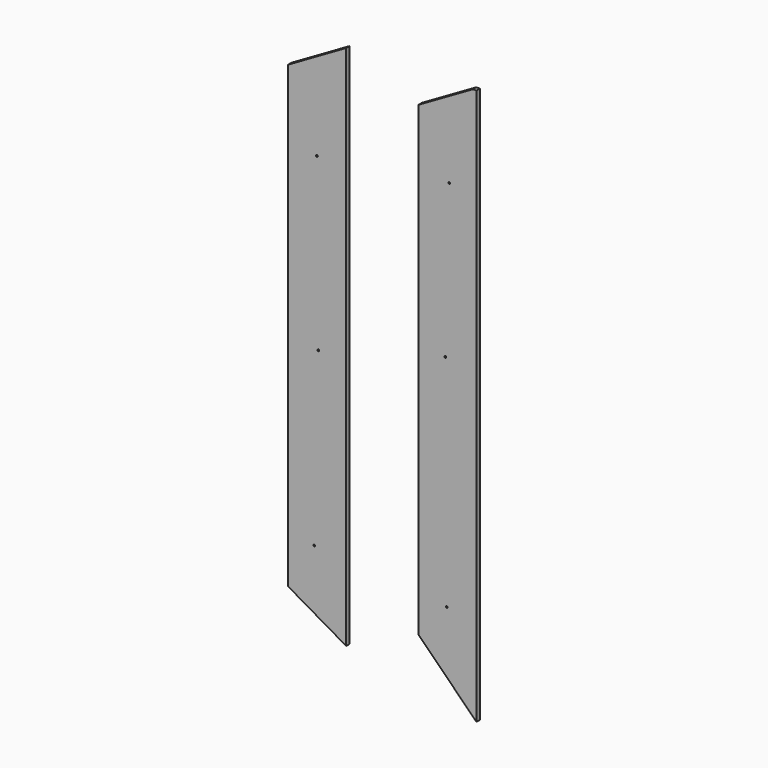
from build123d import *

# Parameters (mm, degrees)
F1_DEPTH = 18
F2_DEPTH = 18


with BuildPart() as f1:
    # F0 (on Front) → F1 (new body)
    with BuildSketch(Plane.XZ):
        Polygon((-292.581528, -1089.160221), (-292.581526, 1174.435994), (-542.074506, 1030.389004), (-542.075497, -945.112988), align=None)
        with BuildLine():
            ThreePointArc((-433.849526, -753.840006), (-432.751176, -751.188356), (-430.099526, -750.090006))
            ThreePointArc((-430.099526, -750.090006), (-427.447876, -751.188356), (-426.349526, -753.840006))
            ThreePointArc((-426.349526, -753.840006), (-427.447876, -756.491656), (-430.099526, -757.590006))
            ThreePointArc((-430.099526, -757.590006), (-432.751176, -756.491656), (-433.849526, -753.840006))
        make_face(mode=Mode.SUBTRACT)
        with BuildLine():
            ThreePointArc((-416.245526, -8.611006), (-415.147176, -5.959356), (-412.495526, -4.861006))
            ThreePointArc((-412.495526, -4.861006), (-409.843876, -5.959356), (-408.745526, -8.611006))
            ThreePointArc((-408.745526, -8.611006), (-409.843876, -11.262656), (-412.495526, -12.361006))
            ThreePointArc((-412.495526, -12.361006), (-415.147176, -11.262656), (-416.245526, -8.611006))
        make_face(mode=Mode.SUBTRACT)
        Polygon((-428.823632, 92.789807), (-428.8264, 93.203596), (-428.829803, 93.623463), (-428.822563, 94.042433), (-428.804756, 94.460314), (-428.776457, 94.876914), (-428.737742, 95.292039), (-428.688687, 95.705497), (-428.629367, 96.117094), (-428.559858, 96.526638), (-428.480236, 96.933936), (-428.390576, 97.338795), (-428.290955, 97.741022), (-428.181447, 98.140424), (-428.062128, 98.536809), (-427.933075, 98.929984), (-427.794363, 99.319755), (-427.646067, 99.70593), (-427.488263, 100.088315), (-427.321027, 100.466719), (-427.144434, 100.840948), (-426.958561, 101.21081), (-426.763483, 101.576111), (-426.559276, 101.936658), (-426.346014, 102.292259), (-426.123775, 102.642721), (-425.892633, 102.987851), (-425.652665, 103.327456), (-425.403946, 103.661344), (-425.146551, 103.98932), (-424.880557, 104.311193), (-424.606039, 104.62677), (-424.323072, 104.935858), (-424.031733, 105.238263), (-423.651452, 105.588123), (-423.263264, 105.927644), (-422.867403, 106.256738), (-422.464103, 106.575315), (-422.053598, 106.883287), (-421.636122, 107.180564), (-421.211908, 107.467058), (-420.781192, 107.74268), (-420.344205, 108.007341), (-419.901183, 108.260952), (-419.452359, 108.503424), (-418.997968, 108.734669), (-418.538242, 108.954598), (-418.073416, 109.163121), (-417.603724, 109.36015), (-417.1294, 109.545596), (-416.650677, 109.71937), (-416.16779, 109.881384), (-415.680972, 110.031548), (-415.190457, 110.169773), (-414.69648, 110.295971), (-414.199273, 110.410053), (-413.699071, 110.51193), (-413.196108, 110.601513), (-412.690618, 110.678713), (-412.182834, 110.743441), (-411.672991, 110.795609), (-411.161322, 110.835127), (-410.648061, 110.861908), (-410.133442, 110.875861), (-409.617699, 110.876898), (-409.101067, 110.86493), (-408.539946, 110.881001), (-407.979756, 110.882779), (-407.420757, 110.870361), (-406.863207, 110.843846), (-406.307367, 110.803331), (-405.753494, 110.748914), (-405.20185, 110.680692), (-404.652692, 110.598763), (-404.10628, 110.503225), (-403.562873, 110.394174), (-403.022731, 110.27171), (-402.486113, 110.13593), (-401.953279, 109.98693), (-401.424486, 109.82481), (-400.899996, 109.649666), (-400.380067, 109.461596), (-399.864957, 109.260698), (-399.354928, 109.04707), (-398.850237, 108.820809), (-398.351145, 108.582013), (-397.85791, 108.330779), (-397.370791, 108.067206), (-396.890049, 107.79139), (-396.415942, 107.50343), (-395.948729, 107.203422), (-395.48867, 106.891466), (-395.036024, 106.567658), (-394.591051, 106.232096), (-394.154009, 105.884878), (-393.725158, 105.526101), (-393.304758, 105.155864), (-392.893067, 104.774263), (-392.602393, 104.488514), (-392.319925, 104.195899), (-392.045746, 103.896613), (-391.779936, 103.590851), (-391.522578, 103.278811), (-391.273752, 102.960687), (-391.033541, 102.636675), (-390.802025, 102.306971), (-390.579287, 101.971771), (-390.365407, 101.631271), (-390.160468, 101.285667), (-389.964551, 100.935154), (-389.777737, 100.579927), (-389.600109, 100.220184), (-389.431747, 99.85612), (-389.272733, 99.48793), (-389.123149, 99.11581), (-388.983076, 98.739956), (-388.852596, 98.360565), (-388.731791, 97.977831), (-388.620741, 97.59195), (-388.519528, 97.203119), (-388.428235, 96.811533), (-388.346942, 96.417388), (-388.275731, 96.02088), (-388.214683, 95.622204), (-388.163881, 95.221556), (-388.123405, 94.819133), (-388.093338, 94.415129), (-388.07376, 94.009741), (-388.064754, 93.603165), (-388.0664, 93.195596), (-388.070073, 92.781348), (-388.084537, 92.368236), (-388.109707, 91.956457), (-388.145499, 91.546211), (-388.191828, 91.137695), (-388.248609, 90.731108), (-388.315758, 90.326648), (-388.393192, 89.924513), (-388.480824, 89.524901), (-388.578571, 89.128012), (-388.686349, 88.734042), (-388.804072, 88.34319), (-388.931656, 87.955655), (-389.069018, 87.571634), (-389.216072, 87.191326), (-389.372733, 86.81493), (-389.538918, 86.442642), (-389.714542, 86.074663), (-389.899521, 85.711189), (-390.09377, 85.352419), (-390.297204, 84.998552), (-390.509739, 84.649785), (-390.731291, 84.306317), (-390.961775, 83.968346), (-391.201107, 83.636071), (-391.449201, 83.309689), (-391.705975, 82.989398), (-391.971343, 82.675398), (-392.24522, 82.367886), (-392.527523, 82.067061), (-392.818167, 81.77312), (-393.117067, 81.486263), (-393.526595, 81.116083), (-393.94451, 80.757104), (-394.370559, 80.409418), (-394.804488, 80.073117), (-395.246045, 79.748293), (-395.694975, 79.435036), (-396.151025, 79.13344), (-396.613942, 78.843596), (-397.083472, 78.565596), (-397.559361, 78.299531), (-398.041358, 78.045494), (-398.529207, 77.803575), (-399.022656, 77.573868), (-399.521451, 77.356463), (-400.025339, 77.151453), (-400.534067, 76.95893), (-401.04738, 76.778984), (-401.565026, 76.611708), (-402.08675, 76.457194), (-402.612301, 76.315534), (-403.141424, 76.186819), (-403.673865, 76.071141), (-404.209372, 75.968591), (-404.747692, 75.879263), (-405.288569, 75.803247), (-405.831752, 75.740635), (-406.376987, 75.69152), (-406.92402, 75.655992), (-407.472598, 75.634144), (-408.022467, 75.626068), (-408.573374, 75.631854), (-409.125067, 75.651596), (-409.639894, 75.643167), (-410.15372, 75.647818), (-410.666306, 75.665457), (-411.177416, 75.695992), (-411.686813, 75.739332), (-412.19426, 75.795385), (-412.699521, 75.864059), (-413.202358, 75.945263), (-413.702536, 76.038904), (-414.199816, 76.144891), (-414.693962, 76.263131), (-415.184738, 76.393534), (-415.671907, 76.536007), (-416.155231, 76.690458), (-416.634475, 76.856796), (-417.1094, 77.03493), (-417.579771, 77.224766), (-418.04535, 77.426213), (-418.505901, 77.639181), (-418.961186, 77.863575), (-419.41097, 78.099306), (-419.855015, 78.346281), (-420.293085, 78.604408), (-420.724942, 78.873596), (-421.150349, 79.153753), (-421.569071, 79.444786), (-421.98087, 79.746605), (-422.385509, 80.059117), (-422.782752, 80.382231), (-423.172361, 80.715854), (-423.554101, 81.059895), (-423.927733, 81.414263), (-424.218947, 81.708169), (-424.502035, 82.008762), (-424.776919, 82.315854), (-425.04352, 82.629258), (-425.30176, 82.948784), (-425.551559, 83.274245), (-425.792841, 83.605454), (-426.025525, 83.942221), (-426.249533, 84.28436), (-426.464787, 84.631682), (-426.671208, 84.983998), (-426.868718, 85.341122), (-427.057237, 85.702865), (-427.236687, 86.06904), (-427.40699, 86.439457), (-427.568067, 86.81393), (-427.719839, 87.192269), (-427.862227, 87.574288), (-427.995154, 87.959798), (-428.118541, 88.348612), (-428.232308, 88.740541), (-428.336377, 89.135396), (-428.43067, 89.532992), (-428.515108, 89.933138), (-428.589613, 90.335648), (-428.654105, 90.740333), (-428.708506, 91.147005), (-428.752738, 91.555476), (-428.786722, 91.965559), (-428.81038, 92.377066), align=None, mode=Mode.SUBTRACT)
        Polygon((-428.823632, 137.035141), (-428.8264, 137.44893), (-428.829803, 137.868796), (-428.822563, 138.287766), (-428.804756, 138.705648), (-428.776457, 139.122247), (-428.737742, 139.537372), (-428.688687, 139.95083), (-428.629367, 140.362427), (-428.559858, 140.771971), (-428.480236, 141.179269), (-428.390576, 141.584128), (-428.290955, 141.986355), (-428.181447, 142.385758), (-428.062128, 142.782143), (-427.933075, 143.175317), (-427.794363, 143.565088), (-427.646067, 143.951263), (-427.488263, 144.333649), (-427.321027, 144.712053), (-427.144434, 145.086282), (-426.958561, 145.456143), (-426.763483, 145.821444), (-426.559276, 146.181991), (-426.346014, 146.537593), (-426.123775, 146.888055), (-425.892633, 147.233185), (-425.652665, 147.57279), (-425.403946, 147.906677), (-425.146551, 148.234654), (-424.880557, 148.556527), (-424.606039, 148.872103), (-424.323072, 149.181191), (-424.031733, 149.483596), (-423.651452, 149.833456), (-423.263264, 150.172978), (-422.867403, 150.502071), (-422.464103, 150.820648), (-422.053598, 151.12862), (-421.636122, 151.425897), (-421.211908, 151.712391), (-420.781192, 151.988013), (-420.344205, 152.252674), (-419.901183, 152.506285), (-419.452359, 152.748758), (-418.997968, 152.980002), (-418.538242, 153.199931), (-418.073416, 153.408454), (-417.603724, 153.605483), (-417.1294, 153.79093), (-416.650677, 153.964704), (-416.16779, 154.126717), (-415.680972, 154.276881), (-415.190457, 154.415107), (-414.69648, 154.541305), (-414.199273, 154.655387), (-413.699071, 154.757263), (-413.196108, 154.846846), (-412.690618, 154.924046), (-412.182834, 154.988775), (-411.672991, 155.040942), (-411.161322, 155.080461), (-410.648061, 155.107241), (-410.133442, 155.121194), (-409.617699, 155.122231), (-409.101067, 155.110263), (-408.539946, 155.126334), (-407.979756, 155.128112), (-407.420757, 155.115695), (-406.863207, 155.08918), (-406.307367, 155.048665), (-405.753494, 154.994247), (-405.20185, 154.926025), (-404.652692, 154.844096), (-404.10628, 154.748558), (-403.562873, 154.639508), (-403.022731, 154.517044), (-402.486113, 154.381263), (-401.953279, 154.232264), (-401.424486, 154.070143), (-400.899996, 153.894999), (-400.380067, 153.70693), (-399.864957, 153.506032), (-399.354928, 153.292404), (-398.850237, 153.066142), (-398.351145, 152.827346), (-397.85791, 152.576113), (-397.370791, 152.312539), (-396.890049, 152.036723), (-396.415942, 151.748763), (-395.948729, 151.448756), (-395.48867, 151.136799), (-395.036024, 150.812991), (-394.591051, 150.47743), (-394.154009, 150.130211), (-393.725158, 149.771435), (-393.304758, 149.401197), (-392.893067, 149.019596), (-392.602393, 148.733848), (-392.319925, 148.441232), (-392.045746, 148.141946), (-391.779936, 147.836185), (-391.522578, 147.524144), (-391.273752, 147.20602), (-391.033541, 146.882008), (-390.802025, 146.552305), (-390.579287, 146.217105), (-390.365407, 145.876605), (-390.160468, 145.531), (-389.964551, 145.180487), (-389.777737, 144.825261), (-389.600109, 144.465517), (-389.431747, 144.101453), (-389.272733, 143.733263), (-389.123149, 143.361143), (-388.983076, 142.98529), (-388.852596, 142.605898), (-388.731791, 142.223164), (-388.620741, 141.837284), (-388.519528, 141.448452), (-388.428235, 141.056866), (-388.346942, 140.662721), (-388.275731, 140.266213), (-388.214683, 139.867537), (-388.163881, 139.466889), (-388.123405, 139.064466), (-388.093338, 138.660463), (-388.07376, 138.255075), (-388.064754, 137.848499), (-388.0664, 137.44093), (-388.070073, 137.026681), (-388.084537, 136.613569), (-388.109707, 136.20179), (-388.145499, 135.791544), (-388.191828, 135.383028), (-388.248609, 134.976441), (-388.315758, 134.571981), (-388.393192, 134.169846), (-388.480824, 133.770235), (-388.578571, 133.373345), (-388.686349, 132.979375), (-388.804072, 132.588523), (-388.931656, 132.200988), (-389.069018, 131.816967), (-389.216072, 131.43666), (-389.372733, 131.060263), (-389.538918, 130.687976), (-389.714542, 130.319996), (-389.899521, 129.956522), (-390.09377, 129.597752), (-390.297204, 129.243885), (-390.509739, 128.895118), (-390.731291, 128.55165), (-390.961775, 128.21368), (-391.201107, 127.881404), (-391.449201, 127.555022), (-391.705975, 127.234732), (-391.971343, 126.920732), (-392.24522, 126.61322), (-392.527523, 126.312394), (-392.818167, 126.018454), (-393.117067, 125.731596), (-393.526595, 125.361416), (-393.94451, 125.002437), (-394.370559, 124.654752), (-394.804488, 124.31845), (-395.246045, 123.993626), (-395.694975, 123.68037), (-396.151025, 123.378774), (-396.613942, 123.08893), (-397.083472, 122.810929), (-397.559361, 122.544864), (-398.041358, 122.290827), (-398.529207, 122.048909), (-399.022656, 121.819201), (-399.521451, 121.601797), (-400.025339, 121.396787), (-400.534067, 121.204263), (-401.04738, 121.024317), (-401.565026, 120.857042), (-402.08675, 120.702528), (-402.612301, 120.560867), (-403.141424, 120.432152), (-403.673865, 120.316474), (-404.209372, 120.213925), (-404.747692, 120.124596), (-405.288569, 120.04858), (-405.831752, 119.985969), (-406.376987, 119.936853), (-406.92402, 119.901325), (-407.472598, 119.879477), (-408.022467, 119.871401), (-408.573374, 119.877188), (-409.125067, 119.89693), (-409.639894, 119.8885), (-410.15372, 119.893151), (-410.666306, 119.91079), (-411.177416, 119.941325), (-411.686813, 119.984666), (-412.19426, 120.040719), (-412.699521, 120.109393), (-413.202358, 120.190596), (-413.702536, 120.284237), (-414.199816, 120.390224), (-414.693962, 120.508464), (-415.184738, 120.638867), (-415.671907, 120.78134), (-416.155231, 120.935792), (-416.634475, 121.10213), (-417.1094, 121.280263), (-417.579771, 121.470099), (-418.04535, 121.671547), (-418.505901, 121.884514), (-418.961186, 122.108909), (-419.41097, 122.34464), (-419.855015, 122.591614), (-420.293085, 122.849742), (-420.724942, 123.11893), (-421.150349, 123.399086), (-421.569071, 123.69012), (-421.98087, 123.991938), (-422.385509, 124.30445), (-422.782752, 124.627564), (-423.172361, 124.961187), (-423.554101, 125.305229), (-423.927733, 125.659596), (-424.218947, 125.953502), (-424.502035, 126.254096), (-424.776919, 126.561188), (-425.04352, 126.874591), (-425.30176, 127.194117), (-425.551559, 127.519579), (-425.792841, 127.850787), (-426.025525, 128.187555), (-426.249533, 128.529693), (-426.464787, 128.877015), (-426.671208, 129.229332), (-426.868718, 129.586456), (-427.057237, 129.948199), (-427.236687, 130.314373), (-427.40699, 130.68479), (-427.568067, 131.059263), (-427.719839, 131.437603), (-427.862227, 131.819622), (-427.995154, 132.205132), (-428.118541, 132.593945), (-428.232308, 132.985874), (-428.336377, 133.38073), (-428.43067, 133.778325), (-428.515108, 134.178471), (-428.589613, 134.580981), (-428.654105, 134.985666), (-428.708506, 135.392338), (-428.752738, 135.80081), (-428.786722, 136.210893), (-428.81038, 136.622399), align=None, mode=Mode.SUBTRACT)
        Polygon((-408.277067, 172.69693), (-408.277067, 190.254263), (-388.3064, 190.254263), (-388.3064, 172.69693), (-388.309804, 172.202554), (-388.338754, 171.711049), (-388.392861, 171.22335), (-388.471733, 170.740388), (-388.574981, 170.263098), (-388.702212, 169.792414), (-388.853038, 169.329269), (-389.027067, 168.874596), (-389.223908, 168.42933), (-389.443171, 167.994404), (-389.684465, 167.570751), (-389.9474, 167.159305), (-390.231585, 166.760999), (-390.536629, 166.376768), (-390.862142, 166.007545), (-391.207733, 165.654263), (-391.559241, 165.313824), (-391.926171, 164.992752), (-392.307632, 164.691415), (-392.702733, 164.41018), (-393.110585, 164.149413), (-393.530296, 163.909482), (-393.960975, 163.690754), (-394.401733, 163.493596), (-394.851679, 163.318376), (-395.309921, 163.165461), (-395.775569, 163.035217), (-396.247733, 162.928013), (-396.725522, 162.844215), (-397.208046, 162.78419), (-397.694413, 162.748306), (-398.183733, 162.73693), (-398.685294, 162.73396), (-399.184348, 162.756799), (-399.679948, 162.805068), (-400.17115, 162.878388), (-400.657008, 162.976379), (-401.136577, 163.098664), (-401.608912, 163.244863), (-402.073067, 163.414596), (-402.528097, 163.607486), (-402.973056, 163.823154), (-403.407, 164.061219), (-403.828983, 164.321305), (-404.23806, 164.60303), (-404.633285, 164.906018), (-405.013714, 165.229889), (-405.3784, 165.574263), (-405.722526, 165.934391), (-406.046655, 166.310159), (-406.350417, 166.700646), (-406.633442, 167.10493), (-406.895356, 167.522088), (-407.135791, 167.9512), (-407.354373, 168.391344), (-407.550733, 168.841596), (-407.7245, 169.301036), (-407.875301, 169.768742), (-408.002766, 170.243792), (-408.106525, 170.725263), (-408.186205, 171.212234), (-408.241436, 171.703784), (-408.271847, 172.198989), align=None, mode=Mode.SUBTRACT)
        with BuildLine():
            ThreePointArc((-422.113526, 724.880994), (-421.015176, 727.532644), (-418.363526, 728.630994))
            ThreePointArc((-418.363526, 728.630994), (-415.711876, 727.532644), (-414.613526, 724.880994))
            ThreePointArc((-414.613526, 724.880994), (-415.711876, 722.229344), (-418.363526, 721.130994))
            ThreePointArc((-418.363526, 721.130994), (-421.015176, 722.229344), (-422.113526, 724.880994))
        make_face(mode=Mode.SUBTRACT)
        Polygon((-388.3064, 190.254263), (-408.277067, 190.254263), (-408.277067, 172.69693), (-408.271847, 172.198989), (-408.241436, 171.703784), (-408.186205, 171.212234), (-408.106525, 170.725263), (-408.002766, 170.243792), (-407.875301, 169.768742), (-407.7245, 169.301036), (-407.550733, 168.841596), (-407.354373, 168.391344), (-407.135791, 167.9512), (-406.895356, 167.522088), (-406.633442, 167.10493), (-406.350417, 166.700646), (-406.046655, 166.310159), (-405.722526, 165.934391), (-405.3784, 165.574263), (-405.013714, 165.229889), (-404.633285, 164.906018), (-404.23806, 164.60303), (-403.828983, 164.321305), (-403.407, 164.061219), (-402.973056, 163.823154), (-402.528097, 163.607486), (-402.073067, 163.414596), (-401.608912, 163.244863), (-401.136577, 163.098664), (-400.657008, 162.976379), (-400.17115, 162.878388), (-399.679948, 162.805068), (-399.184348, 162.756799), (-398.685294, 162.73396), (-398.183733, 162.73693), (-397.694413, 162.748306), (-397.208046, 162.78419), (-396.725522, 162.844215), (-396.247733, 162.928013), (-395.775569, 163.035217), (-395.309921, 163.165461), (-394.851679, 163.318376), (-394.401733, 163.493596), (-393.960975, 163.690754), (-393.530296, 163.909482), (-393.110585, 164.149413), (-392.702733, 164.41018), (-392.307632, 164.691415), (-391.926171, 164.992752), (-391.559241, 165.313824), (-391.207733, 165.654263), (-390.862142, 166.007545), (-390.536629, 166.376768), (-390.231585, 166.760999), (-389.9474, 167.159305), (-389.684465, 167.570751), (-389.443171, 167.994404), (-389.223908, 168.42933), (-389.027067, 168.874596), (-388.853038, 169.329269), (-388.702212, 169.792414), (-388.574981, 170.263098), (-388.471733, 170.740388), (-388.392861, 171.22335), (-388.338754, 171.711049), (-388.309804, 172.202554), (-388.3064, 172.69693), align=None)
        Polygon((-428.829803, 137.868796), (-428.8264, 137.44893), (-428.823632, 137.035141), (-428.81038, 136.622399), (-428.786722, 136.210893), (-428.752738, 135.80081), (-428.708506, 135.392338), (-428.654105, 134.985666), (-428.589613, 134.580981), (-428.515108, 134.178471), (-428.43067, 133.778325), (-428.336377, 133.38073), (-428.232308, 132.985874), (-428.118541, 132.593945), (-427.995154, 132.205132), (-427.862227, 131.819622), (-427.719839, 131.437603), (-427.568067, 131.059263), (-427.40699, 130.68479), (-427.236687, 130.314373), (-427.057237, 129.948199), (-426.868718, 129.586456), (-426.671208, 129.229332), (-426.464787, 128.877015), (-426.249533, 128.529693), (-426.025525, 128.187555), (-425.792841, 127.850787), (-425.551559, 127.519579), (-425.30176, 127.194117), (-425.04352, 126.874591), (-424.776919, 126.561188), (-424.502035, 126.254096), (-424.218947, 125.953502), (-423.927733, 125.659596), (-423.554101, 125.305229), (-423.172361, 124.961187), (-422.782752, 124.627564), (-422.385509, 124.30445), (-421.98087, 123.991938), (-421.569071, 123.69012), (-421.150349, 123.399086), (-420.724942, 123.11893), (-420.293085, 122.849742), (-419.855015, 122.591614), (-419.41097, 122.34464), (-418.961186, 122.108909), (-418.505901, 121.884514), (-418.04535, 121.671547), (-417.579771, 121.470099), (-417.1094, 121.280263), (-416.634475, 121.10213), (-416.155231, 120.935792), (-415.671907, 120.78134), (-415.184738, 120.638867), (-414.693962, 120.508464), (-414.199816, 120.390224), (-413.702536, 120.284237), (-413.202358, 120.190596), (-412.699521, 120.109393), (-412.19426, 120.040719), (-411.686813, 119.984666), (-411.177416, 119.941325), (-410.666306, 119.91079), (-410.15372, 119.893151), (-409.639894, 119.8885), (-409.125067, 119.89693), (-408.573374, 119.877188), (-408.022467, 119.871401), (-407.472598, 119.879477), (-406.92402, 119.901325), (-406.376987, 119.936853), (-405.831752, 119.985969), (-405.288569, 120.04858), (-404.747692, 120.124596), (-404.209372, 120.213925), (-403.673865, 120.316474), (-403.141424, 120.432152), (-402.612301, 120.560867), (-402.08675, 120.702528), (-401.565026, 120.857042), (-401.04738, 121.024317), (-400.534067, 121.204263), (-400.025339, 121.396787), (-399.521451, 121.601797), (-399.022656, 121.819201), (-398.529207, 122.048909), (-398.041358, 122.290827), (-397.559361, 122.544864), (-397.083472, 122.810929), (-396.613942, 123.08893), (-396.151025, 123.378774), (-395.694975, 123.68037), (-395.246045, 123.993626), (-394.804488, 124.31845), (-394.370559, 124.654752), (-393.94451, 125.002437), (-393.526595, 125.361416), (-393.117067, 125.731596), (-392.818167, 126.018454), (-392.527523, 126.312394), (-392.24522, 126.61322), (-391.971343, 126.920732), (-391.705975, 127.234732), (-391.449201, 127.555022), (-391.201107, 127.881404), (-390.961775, 128.21368), (-390.731291, 128.55165), (-390.509739, 128.895118), (-390.297204, 129.243885), (-390.09377, 129.597752), (-389.899521, 129.956522), (-389.714542, 130.319996), (-389.538918, 130.687976), (-389.372733, 131.060263), (-389.216072, 131.43666), (-389.069018, 131.816967), (-388.931656, 132.200988), (-388.804072, 132.588523), (-388.686349, 132.979375), (-388.578571, 133.373345), (-388.480824, 133.770235), (-388.393192, 134.169846), (-388.315758, 134.571981), (-388.248609, 134.976441), (-388.191828, 135.383028), (-388.145499, 135.791544), (-388.109707, 136.20179), (-388.084537, 136.613569), (-388.070073, 137.026681), (-388.0664, 137.44093), (-388.064754, 137.848499), (-388.07376, 138.255075), (-388.093338, 138.660463), (-388.123405, 139.064466), (-388.163881, 139.466889), (-388.214683, 139.867537), (-388.275731, 140.266213), (-388.346942, 140.662721), (-388.428235, 141.056866), (-388.519528, 141.448452), (-388.620741, 141.837284), (-388.731791, 142.223164), (-388.852596, 142.605898), (-388.983076, 142.98529), (-389.123149, 143.361143), (-389.272733, 143.733263), (-389.431747, 144.101453), (-389.600109, 144.465517), (-389.777737, 144.825261), (-389.964551, 145.180487), (-390.160468, 145.531), (-390.365407, 145.876605), (-390.579287, 146.217105), (-390.802025, 146.552305), (-391.033541, 146.882008), (-391.273752, 147.20602), (-391.522578, 147.524144), (-391.779936, 147.836185), (-392.045746, 148.141946), (-392.319925, 148.441232), (-392.602393, 148.733848), (-392.893067, 149.019596), (-393.304758, 149.401197), (-393.725158, 149.771435), (-394.154009, 150.130211), (-394.591051, 150.47743), (-395.036024, 150.812991), (-395.48867, 151.136799), (-395.948729, 151.448756), (-396.415942, 151.748763), (-396.890049, 152.036723), (-397.370791, 152.312539), (-397.85791, 152.576113), (-398.351145, 152.827346), (-398.850237, 153.066142), (-399.354928, 153.292404), (-399.864957, 153.506032), (-400.380067, 153.70693), (-400.899996, 153.894999), (-401.424486, 154.070143), (-401.953279, 154.232264), (-402.486113, 154.381263), (-403.022731, 154.517044), (-403.562873, 154.639508), (-404.10628, 154.748558), (-404.652692, 154.844096), (-405.20185, 154.926025), (-405.753494, 154.994247), (-406.307367, 155.048665), (-406.863207, 155.08918), (-407.420757, 155.115695), (-407.979756, 155.128112), (-408.539946, 155.126334), (-409.101067, 155.110263), (-409.617699, 155.122231), (-410.133442, 155.121194), (-410.648061, 155.107241), (-411.161322, 155.080461), (-411.672991, 155.040942), (-412.182834, 154.988775), (-412.690618, 154.924046), (-413.196108, 154.846846), (-413.699071, 154.757263), (-414.199273, 154.655387), (-414.69648, 154.541305), (-415.190457, 154.415107), (-415.680972, 154.276881), (-416.16779, 154.126717), (-416.650677, 153.964704), (-417.1294, 153.79093), (-417.603724, 153.605483), (-418.073416, 153.408454), (-418.538242, 153.199931), (-418.997968, 152.980002), (-419.452359, 152.748758), (-419.901183, 152.506285), (-420.344205, 152.252674), (-420.781192, 151.988013), (-421.211908, 151.712391), (-421.636122, 151.425897), (-422.053598, 151.12862), (-422.464103, 150.820648), (-422.867403, 150.502071), (-423.263264, 150.172978), (-423.651452, 149.833456), (-424.031733, 149.483596), (-424.323072, 149.181191), (-424.606039, 148.872103), (-424.880557, 148.556527), (-425.146551, 148.234654), (-425.403946, 147.906677), (-425.652665, 147.57279), (-425.892633, 147.233185), (-426.123775, 146.888055), (-426.346014, 146.537593), (-426.559276, 146.181991), (-426.763483, 145.821444), (-426.958561, 145.456143), (-427.144434, 145.086282), (-427.321027, 144.712053), (-427.488263, 144.333649), (-427.646067, 143.951263), (-427.794363, 143.565088), (-427.933075, 143.175317), (-428.062128, 142.782143), (-428.181447, 142.385758), (-428.290955, 141.986355), (-428.390576, 141.584128), (-428.480236, 141.179269), (-428.559858, 140.771971), (-428.629367, 140.362427), (-428.688687, 139.95083), (-428.737742, 139.537372), (-428.776457, 139.122247), (-428.804756, 138.705648), (-428.822563, 138.287766), align=None)
        Polygon((-428.829803, 93.623463), (-428.8264, 93.203596), (-428.823632, 92.789807), (-428.81038, 92.377066), (-428.786722, 91.965559), (-428.752738, 91.555476), (-428.708506, 91.147005), (-428.654105, 90.740333), (-428.589613, 90.335648), (-428.515108, 89.933138), (-428.43067, 89.532992), (-428.336377, 89.135396), (-428.232308, 88.740541), (-428.118541, 88.348612), (-427.995154, 87.959798), (-427.862227, 87.574288), (-427.719839, 87.192269), (-427.568067, 86.81393), (-427.40699, 86.439457), (-427.236687, 86.06904), (-427.057237, 85.702865), (-426.868718, 85.341122), (-426.671208, 84.983998), (-426.464787, 84.631682), (-426.249533, 84.28436), (-426.025525, 83.942221), (-425.792841, 83.605454), (-425.551559, 83.274245), (-425.30176, 82.948784), (-425.04352, 82.629258), (-424.776919, 82.315854), (-424.502035, 82.008762), (-424.218947, 81.708169), (-423.927733, 81.414263), (-423.554101, 81.059895), (-423.172361, 80.715854), (-422.782752, 80.382231), (-422.385509, 80.059117), (-421.98087, 79.746605), (-421.569071, 79.444786), (-421.150349, 79.153753), (-420.724942, 78.873596), (-420.293085, 78.604408), (-419.855015, 78.346281), (-419.41097, 78.099306), (-418.961186, 77.863575), (-418.505901, 77.639181), (-418.04535, 77.426213), (-417.579771, 77.224766), (-417.1094, 77.03493), (-416.634475, 76.856796), (-416.155231, 76.690458), (-415.671907, 76.536007), (-415.184738, 76.393534), (-414.693962, 76.263131), (-414.199816, 76.144891), (-413.702536, 76.038904), (-413.202358, 75.945263), (-412.699521, 75.864059), (-412.19426, 75.795385), (-411.686813, 75.739332), (-411.177416, 75.695992), (-410.666306, 75.665457), (-410.15372, 75.647818), (-409.639894, 75.643167), (-409.125067, 75.651596), (-408.573374, 75.631854), (-408.022467, 75.626068), (-407.472598, 75.634144), (-406.92402, 75.655992), (-406.376987, 75.69152), (-405.831752, 75.740635), (-405.288569, 75.803247), (-404.747692, 75.879263), (-404.209372, 75.968591), (-403.673865, 76.071141), (-403.141424, 76.186819), (-402.612301, 76.315534), (-402.08675, 76.457194), (-401.565026, 76.611708), (-401.04738, 76.778984), (-400.534067, 76.95893), (-400.025339, 77.151453), (-399.521451, 77.356463), (-399.022656, 77.573868), (-398.529207, 77.803575), (-398.041358, 78.045494), (-397.559361, 78.299531), (-397.083472, 78.565596), (-396.613942, 78.843596), (-396.151025, 79.13344), (-395.694975, 79.435036), (-395.246045, 79.748293), (-394.804488, 80.073117), (-394.370559, 80.409418), (-393.94451, 80.757104), (-393.526595, 81.116083), (-393.117067, 81.486263), (-392.818167, 81.77312), (-392.527523, 82.067061), (-392.24522, 82.367886), (-391.971343, 82.675398), (-391.705975, 82.989398), (-391.449201, 83.309689), (-391.201107, 83.636071), (-390.961775, 83.968346), (-390.731291, 84.306317), (-390.509739, 84.649785), (-390.297204, 84.998552), (-390.09377, 85.352419), (-389.899521, 85.711189), (-389.714542, 86.074663), (-389.538918, 86.442642), (-389.372733, 86.81493), (-389.216072, 87.191326), (-389.069018, 87.571634), (-388.931656, 87.955655), (-388.804072, 88.34319), (-388.686349, 88.734042), (-388.578571, 89.128012), (-388.480824, 89.524901), (-388.393192, 89.924513), (-388.315758, 90.326648), (-388.248609, 90.731108), (-388.191828, 91.137695), (-388.145499, 91.546211), (-388.109707, 91.956457), (-388.084537, 92.368236), (-388.070073, 92.781348), (-388.0664, 93.195596), (-388.064754, 93.603165), (-388.07376, 94.009741), (-388.093338, 94.415129), (-388.123405, 94.819133), (-388.163881, 95.221556), (-388.214683, 95.622204), (-388.275731, 96.02088), (-388.346942, 96.417388), (-388.428235, 96.811533), (-388.519528, 97.203119), (-388.620741, 97.59195), (-388.731791, 97.977831), (-388.852596, 98.360565), (-388.983076, 98.739956), (-389.123149, 99.11581), (-389.272733, 99.48793), (-389.431747, 99.85612), (-389.600109, 100.220184), (-389.777737, 100.579927), (-389.964551, 100.935154), (-390.160468, 101.285667), (-390.365407, 101.631271), (-390.579287, 101.971771), (-390.802025, 102.306971), (-391.033541, 102.636675), (-391.273752, 102.960687), (-391.522578, 103.278811), (-391.779936, 103.590851), (-392.045746, 103.896613), (-392.319925, 104.195899), (-392.602393, 104.488514), (-392.893067, 104.774263), (-393.304758, 105.155864), (-393.725158, 105.526101), (-394.154009, 105.884878), (-394.591051, 106.232096), (-395.036024, 106.567658), (-395.48867, 106.891466), (-395.948729, 107.203422), (-396.415942, 107.50343), (-396.890049, 107.79139), (-397.370791, 108.067206), (-397.85791, 108.330779), (-398.351145, 108.582013), (-398.850237, 108.820809), (-399.354928, 109.04707), (-399.864957, 109.260698), (-400.380067, 109.461596), (-400.899996, 109.649666), (-401.424486, 109.82481), (-401.953279, 109.98693), (-402.486113, 110.13593), (-403.022731, 110.27171), (-403.562873, 110.394174), (-404.10628, 110.503225), (-404.652692, 110.598763), (-405.20185, 110.680692), (-405.753494, 110.748914), (-406.307367, 110.803331), (-406.863207, 110.843846), (-407.420757, 110.870361), (-407.979756, 110.882779), (-408.539946, 110.881001), (-409.101067, 110.86493), (-409.617699, 110.876898), (-410.133442, 110.875861), (-410.648061, 110.861908), (-411.161322, 110.835127), (-411.672991, 110.795609), (-412.182834, 110.743441), (-412.690618, 110.678713), (-413.196108, 110.601513), (-413.699071, 110.51193), (-414.199273, 110.410053), (-414.69648, 110.295971), (-415.190457, 110.169773), (-415.680972, 110.031548), (-416.16779, 109.881384), (-416.650677, 109.71937), (-417.1294, 109.545596), (-417.603724, 109.36015), (-418.073416, 109.163121), (-418.538242, 108.954598), (-418.997968, 108.734669), (-419.452359, 108.503424), (-419.901183, 108.260952), (-420.344205, 108.007341), (-420.781192, 107.74268), (-421.211908, 107.467058), (-421.636122, 107.180564), (-422.053598, 106.883287), (-422.464103, 106.575315), (-422.867403, 106.256738), (-423.263264, 105.927644), (-423.651452, 105.588123), (-424.031733, 105.238263), (-424.323072, 104.935858), (-424.606039, 104.62677), (-424.880557, 104.311193), (-425.146551, 103.98932), (-425.403946, 103.661344), (-425.652665, 103.327456), (-425.892633, 102.987851), (-426.123775, 102.642721), (-426.346014, 102.292259), (-426.559276, 101.936658), (-426.763483, 101.576111), (-426.958561, 101.21081), (-427.144434, 100.840948), (-427.321027, 100.466719), (-427.488263, 100.088315), (-427.646067, 99.70593), (-427.794363, 99.319755), (-427.933075, 98.929984), (-428.062128, 98.536809), (-428.181447, 98.140424), (-428.290955, 97.741022), (-428.390576, 97.338795), (-428.480236, 96.933936), (-428.559858, 96.526638), (-428.629367, 96.117094), (-428.688687, 95.705497), (-428.737742, 95.292039), (-428.776457, 94.876914), (-428.804756, 94.460314), (-428.822563, 94.042433), align=None)
    extrude(amount=F1_DEPTH)


with BuildPart() as f2:
    # F0 (on Front) → F2 (new body)
    with BuildSketch(Plane.XZ):
        Polygon((267.412374, 1195.564006), (252.045387, 1195.564006), (17.917503, 1060.392228), (17.917503, -945.019821), (267.418474, -1194.525969), align=None)
        with BuildLine():
            ThreePointArc((135.340474, -800.783006), (136.438824, -798.131356), (139.090474, -797.033006))
            ThreePointArc((139.090474, -797.033006), (141.742124, -798.131356), (142.840474, -800.783006))
            ThreePointArc((142.840474, -800.783006), (141.742124, -803.434656), (139.090474, -804.533006))
            ThreePointArc((139.090474, -804.533006), (136.438824, -803.434656), (135.340474, -800.783006))
        make_face(mode=Mode.SUBTRACT)
        Polygon((146.818093, -17.164794), (132.159427, -17.164794), (132.159427, 22.811206), (146.818093, 22.811206), (147.165512, 22.794757), (147.511665, 22.769461), (147.856394, 22.735391), (148.199541, 22.692622), (148.540951, 22.641228), (148.880464, 22.581284), (149.217925, 22.512863), (149.553177, 22.436039), (149.886061, 22.350887), (150.21642, 22.257482), (150.544098, 22.155896), (150.868937, 22.046206), (151.19078, 21.928484), (151.50947, 21.802805), (151.824849, 21.669243), (152.13676, 21.527872), (152.445046, 21.378768), (152.74955, 21.222003), (153.050115, 21.057652), (153.346583, 20.885789), (153.638797, 20.706489), (153.9266, 20.519825), (154.209834, 20.325873), (154.488343, 20.124706), (154.761969, 19.916398), (155.030556, 19.701023), (155.293944, 19.478657), (155.551979, 19.249372), (155.804501, 19.013244), (156.051355, 18.770346), (156.292383, 18.520753), (156.527427, 18.264539), (156.928237, 17.852099), (157.317597, 17.430453), (157.695399, 16.999866), (158.061536, 16.560602), (158.415902, 16.112923), (158.75839, 15.657094), (159.088892, 15.193378), (159.407302, 14.722039), (159.713512, 14.243341), (160.007417, 13.757547), (160.288908, 13.264921), (160.55788, 12.765727), (160.814224, 12.260228), (161.057835, 11.748687), (161.288605, 11.23137), (161.506427, 10.708539), (161.711194, 10.180458), (161.9028, 9.647391), (162.081137, 9.109601), (162.246099, 8.567352), (162.397578, 8.020907), (162.535468, 7.470531), (162.659661, 6.916487), (162.770052, 6.359039), (162.866532, 5.79845), (162.948995, 5.234984), (163.017334, 4.668905), (163.071442, 4.100477), (163.111213, 3.529962), (163.136538, 2.957625), (163.147312, 2.383729), (163.143427, 1.808539), (163.15512, 1.326622), (163.154752, 0.845515), (163.142404, 0.365434), (163.118156, -0.113404), (163.082087, -0.590783), (163.034278, -1.066486), (162.974809, -1.540298), (162.90376, -2.012003), (162.821211, -2.481383), (162.727242, -2.948222), (162.621933, -3.412305), (162.505364, -3.873414), (162.377616, -4.331334), (162.238768, -4.785848), (162.0889, -5.236741), (161.928093, -5.683794), (161.756427, -6.126793), (161.573981, -6.565522), (161.380836, -6.999762), (161.177072, -7.4293), (160.962769, -7.853917), (160.738007, -8.273398), (160.502866, -8.687526), (160.257427, -9.096086), (160.001768, -9.49886), (159.735971, -9.895634), (159.460115, -10.286189), (159.174281, -10.67031), (158.878548, -11.047781), (158.572997, -11.418385), (158.257708, -11.781906), (157.93276, -12.138128), (157.658976, -12.422435), (157.378738, -12.699306), (157.092217, -12.968663), (156.799583, -13.23043), (156.501008, -13.484528), (156.196662, -13.730882), (155.886717, -13.969413), (155.571343, -14.200044), (155.250712, -14.422699), (154.924993, -14.637301), (154.594358, -14.843771), (154.258979, -15.042034), (153.919025, -15.232011), (153.574668, -15.413626), (153.226078, -15.586802), (152.873427, -15.751461), (152.516885, -15.907526), (152.156623, -16.054921), (151.792813, -16.193567), (151.425625, -16.323388), (151.055229, -16.444307), (150.681798, -16.556246), (150.305501, -16.659129), (149.92651, -16.752878), (149.544995, -16.837416), (149.161128, -16.912665), (148.77508, -16.97855), (148.38702, -17.034992), (147.997121, -17.081915), (147.605553, -17.119241), (147.212487, -17.146893), align=None, mode=Mode.SUBTRACT)
        with BuildLine():
            ThreePointArc((129.472474, 143.954994), (130.570824, 146.606644), (133.222474, 147.704994))
            ThreePointArc((133.222474, 147.704994), (135.874124, 146.606644), (136.972474, 143.954994))
            ThreePointArc((136.972474, 143.954994), (135.874124, 141.303344), (133.222474, 140.204994))
            ThreePointArc((133.222474, 140.204994), (130.570824, 141.303344), (129.472474, 143.954994))
        make_face(mode=Mode.SUBTRACT)
        with BuildLine():
            ThreePointArc((147.076474, 807.031994), (148.174824, 809.683644), (150.826474, 810.781994))
            ThreePointArc((150.826474, 810.781994), (153.478124, 809.683644), (154.576474, 807.031994))
            ThreePointArc((154.576474, 807.031994), (153.478124, 804.380344), (150.826474, 803.281994))
            ThreePointArc((150.826474, 803.281994), (148.174824, 804.380344), (147.076474, 807.031994))
        make_face(mode=Mode.SUBTRACT)
        Polygon((132.159427, 22.811206), (132.159427, -17.164794), (146.818093, -17.164794), (147.212487, -17.146893), (147.605553, -17.119241), (147.997121, -17.081915), (148.38702, -17.034992), (148.77508, -16.97855), (149.161128, -16.912665), (149.544995, -16.837416), (149.92651, -16.752878), (150.305501, -16.659129), (150.681798, -16.556246), (151.055229, -16.444307), (151.425625, -16.323388), (151.792813, -16.193567), (152.156623, -16.054921), (152.516885, -15.907526), (152.873427, -15.751461), (153.226078, -15.586802), (153.574668, -15.413626), (153.919025, -15.232011), (154.258979, -15.042034), (154.594358, -14.843771), (154.924993, -14.637301), (155.250712, -14.422699), (155.571343, -14.200044), (155.886717, -13.969413), (156.196662, -13.730882), (156.501008, -13.484528), (156.799583, -13.23043), (157.092217, -12.968663), (157.378738, -12.699306), (157.658976, -12.422435), (157.93276, -12.138128), (158.257708, -11.781906), (158.572997, -11.418385), (158.878548, -11.047781), (159.174281, -10.67031), (159.460115, -10.286189), (159.735971, -9.895634), (160.001768, -9.49886), (160.257427, -9.096086), (160.502866, -8.687526), (160.738007, -8.273398), (160.962769, -7.853917), (161.177072, -7.4293), (161.380836, -6.999762), (161.573981, -6.565522), (161.756427, -6.126793), (161.928093, -5.683794), (162.0889, -5.236741), (162.238768, -4.785848), (162.377616, -4.331334), (162.505364, -3.873414), (162.621933, -3.412305), (162.727242, -2.948222), (162.821211, -2.481383), (162.90376, -2.012003), (162.974809, -1.540298), (163.034278, -1.066486), (163.082087, -0.590783), (163.118156, -0.113404), (163.142404, 0.365434), (163.154752, 0.845515), (163.15512, 1.326622), (163.143427, 1.808539), (163.147312, 2.383729), (163.136538, 2.957625), (163.111213, 3.529962), (163.071442, 4.100477), (163.017334, 4.668905), (162.948995, 5.234984), (162.866532, 5.79845), (162.770052, 6.359039), (162.659661, 6.916487), (162.535468, 7.470531), (162.397578, 8.020907), (162.246099, 8.567352), (162.081137, 9.109601), (161.9028, 9.647391), (161.711194, 10.180458), (161.506427, 10.708539), (161.288605, 11.23137), (161.057835, 11.748687), (160.814224, 12.260228), (160.55788, 12.765727), (160.288908, 13.264921), (160.007417, 13.757547), (159.713512, 14.243341), (159.407302, 14.722039), (159.088892, 15.193378), (158.75839, 15.657094), (158.415902, 16.112923), (158.061536, 16.560602), (157.695399, 16.999866), (157.317597, 17.430453), (156.928237, 17.852099), (156.527427, 18.264539), (156.292383, 18.520753), (156.051355, 18.770346), (155.804501, 19.013244), (155.551979, 19.249372), (155.293944, 19.478657), (155.030556, 19.701023), (154.761969, 19.916398), (154.488343, 20.124706), (154.209834, 20.325873), (153.9266, 20.519825), (153.638797, 20.706489), (153.346583, 20.885789), (153.050115, 21.057652), (152.74955, 21.222003), (152.445046, 21.378768), (152.13676, 21.527872), (151.824849, 21.669243), (151.50947, 21.802805), (151.19078, 21.928484), (150.868937, 22.046206), (150.544098, 22.155896), (150.21642, 22.257482), (149.886061, 22.350887), (149.553177, 22.436039), (149.217925, 22.512863), (148.880464, 22.581284), (148.540951, 22.641228), (148.199541, 22.692622), (147.856394, 22.735391), (147.511665, 22.769461), (147.165512, 22.794757), (146.818093, 22.811206), align=None)
    extrude(amount=F2_DEPTH)


solid = Compound([f1.part, f2.part])
